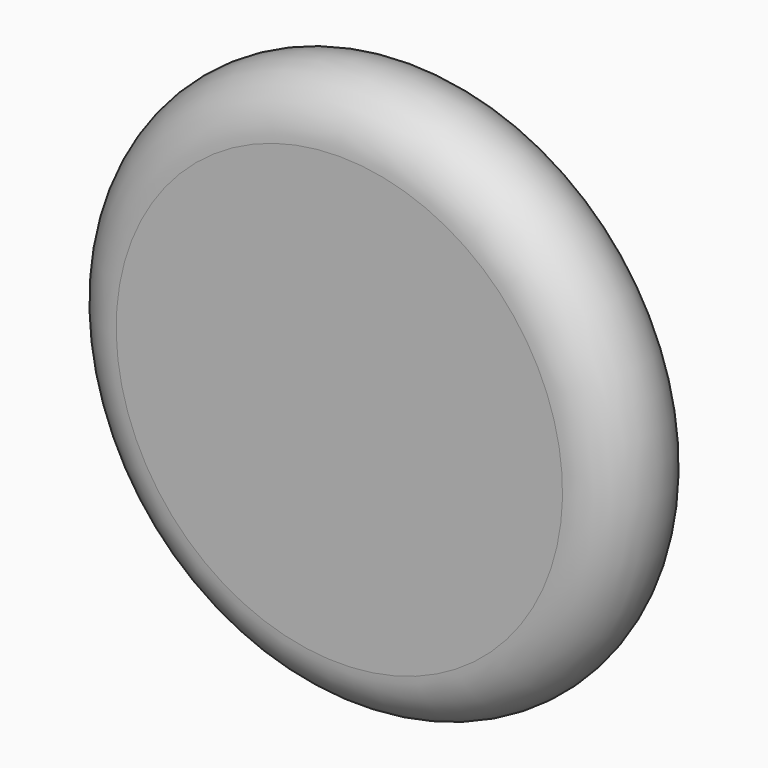
from build123d import *


with BuildPart() as f1:
    # F0 (on Right) → F1 (revolve)
    with BuildSketch(Plane.YZ):
        with BuildLine():
            Line((-12.7, 50.8), (-12.7, 0))
            Line((-12.7, 0), (12.7, 0))
            Line((12.7, 0), (12.7, 50.8))
            ThreePointArc((12.7, 50.8), (0, 63.5), (-12.7, 50.8))
        make_face()
    revolve(axis=Axis((0, 1.20865, 0), (0, 1, 0)))


solid = f1.part
